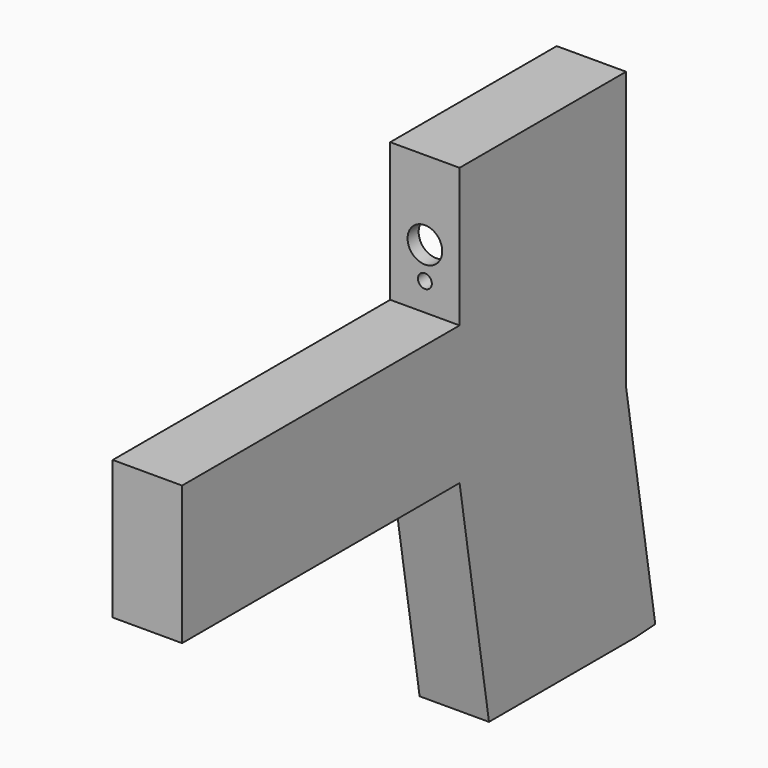
from build123d import *

# Parameters (mm, degrees)
F2_DEPTH = 12.7
F3_DEPTH = 12.192
F4_R     = 1.27
F5_DEPTH = 38.23583
F6_R     = 3.175
F7_DEPTH = 38.23239


with BuildPart() as f2:
    # F0 (on Right) → F2 (new body)
    with BuildSketch(Plane.YZ):
        Polygon((13.97679, 10.59016), (-49.52321, 10.59016), (-49.52321, -14.80984), (13.97679, -14.80984), (20.706118, -56.049787), (54.080267, -56.049787), (58.759574, -55.764545), (52.07679, -14.80984), (52.07679, 10.59016), (52.07679, 35.99016), (13.97679, 35.99016), align=None)
    extrude(amount=F2_DEPTH)

    # F1 (on Right) → F3 (cut)
    with BuildSketch(Plane.YZ):
        Polygon((16.135918, -12.26984), (22.865247, -53.509787), (54.002922, -53.509787), (55.800184, -53.400229), (49.53679, -15.01571), (49.53679, 10.59016), (49.53679, 33.45016), (16.51679, 33.45016), (16.51679, 8.05016), (-46.98321, 8.05016), (-46.98321, -12.26984), align=None)
    extrude(amount=F3_DEPTH, mode=Mode.SUBTRACT)

    # F4 (on face) → F5 (cut)
    with BuildSketch(Plane.XZ.offset(-13.97679)):
        with Locations((6.35, 15.67016)):
            Circle(F4_R)
    extrude(amount=-F5_DEPTH, mode=Mode.SUBTRACT)

    # F6 (on face) → F7 (cut)
    with BuildSketch(Plane.XZ.offset(-13.97679)):
        with Locations((6.35, 21.51216)):
            Circle(F6_R)
    extrude(amount=-F7_DEPTH, mode=Mode.SUBTRACT)


solid = f2.part
